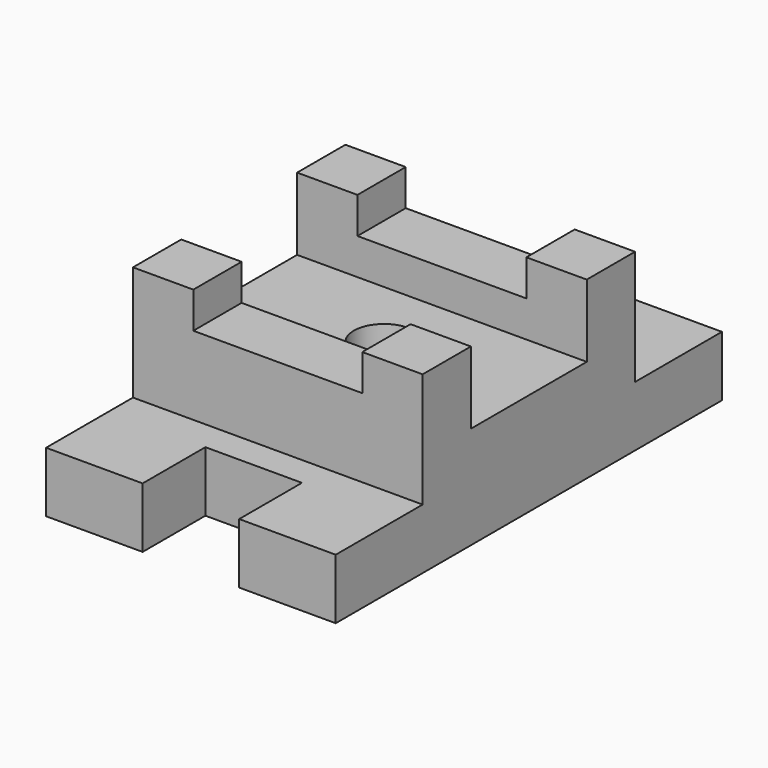
from build123d import *

# Parameters (mm, degrees)
F1_DEPTH  = 31.75
F0_W      = 31.75
F0_H      = 31.75
F2_DEPTH  = 92.075
F3_DEPTH  = 92.075
F4_DEPTH  = 92.075
F5_DEPTH  = 92.075
F6_DEPTH  = 31.75
F7_DEPTH  = 73.025
F8_DEPTH  = 73.025
F0_R      = 15.875
F9_DEPTH  = 53.975
F10_DEPTH = 6.35
F11_SCALE = 0.5


with BuildPart() as f1:
    # F0 (on Top) → F1 (new body)
    with BuildSketch(Plane.XY):
        Polygon((25.4, 15.875), (0, 15.875), (-25.4, 15.875), (-25.4, 57.15), (-76.2, 57.15), (-76.2, 0), (-44.45, 0), (0, 0), (44.45, 0), (76.2, 0), (76.2, 57.15), (25.4, 57.15), align=None)
    extrude(amount=F1_DEPTH)

    # F0 (on Top) → F2 (join)
    with BuildSketch(Plane.XY):
        with Locations((-60.325, -15.875)):
            Rectangle(F0_W, F0_H)
    extrude(amount=F2_DEPTH)

    # F0 (on Top) → F3 (join)
    with BuildSketch(Plane.XY):
        with Locations((60.325, -15.875)):
            Rectangle(F0_W, F0_H)
    extrude(amount=F3_DEPTH)

    # F0 (on Top) → F8 (join)
    with BuildSketch(Plane.XY):
        Polygon((0, 0), (-44.45, 0), (-44.45, -31.75), (44.45, -31.75), (44.45, 0), align=None)
    extrude(amount=F8_DEPTH)



with BuildPart() as f4:
    # F0 (on Top) → F4 (new body)
    with BuildSketch(Plane.XY):
        with Locations((-60.325, -123.825)):
            Rectangle(F0_W, F0_H)
    extrude(amount=F4_DEPTH)



with BuildPart() as f5:
    # F0 (on Top) → F5 (new body)
    with BuildSketch(Plane.XY):
        with Locations((60.325, -123.825)):
            Rectangle(F0_W, F0_H)
    extrude(amount=F5_DEPTH)


with BuildPart() as f4_1:
    add(f4.part)

    add(f5.part)  # F6 merges F5
    # F0 (on Top) → F6 (join)
    with BuildSketch(Plane.XY):
        Polygon((-44.45, -139.7), (-76.2, -139.7), (-76.2, -196.85), (-25.4, -196.85), (-25.4, -155.575), (0, -155.575), (25.4, -155.575), (25.4, -196.85), (76.2, -196.85), (76.2, -139.7), (44.45, -139.7), (0, -139.7), align=None)
    extrude(amount=F6_DEPTH)

    # F0 (on Top) → F7 (join)
    with BuildSketch(Plane.XY):
        Polygon((44.45, -107.95), (-44.45, -107.95), (-44.45, -139.7), (0, -139.7), (44.45, -139.7), align=None)
    extrude(amount=F7_DEPTH)


with BuildPart() as f1_1:
    add(f1.part)

    add(f4_1.part)  # F9 merges F4
    # F0 (on Top) → F9 (join)
    with BuildSketch(Plane.XY):
        Polygon((-44.45, -31.75), (-76.2, -31.75), (-76.2, -69.85), (-76.2, -107.95), (-44.45, -107.95), (44.45, -107.95), (76.2, -107.95), (76.2, -69.85), (76.2, -31.75), (44.45, -31.75), align=None)
        with Locations((0, -69.85)):
            Circle(F0_R, mode=Mode.SUBTRACT)
    extrude(amount=F9_DEPTH)

    # F0 (on Top) → F10 (cut)
    with BuildSketch(Plane.XY):
        with Locations((0, -69.85)):
            Circle(F0_R)
    extrude(amount=-F10_DEPTH, mode=Mode.SUBTRACT)


with BuildPart() as f1_2:
    # F11: moved
    add(f1_1.part.scale(F11_SCALE).moved(Location((38.1, -98.425, 0))))


solid = f1_2.part
